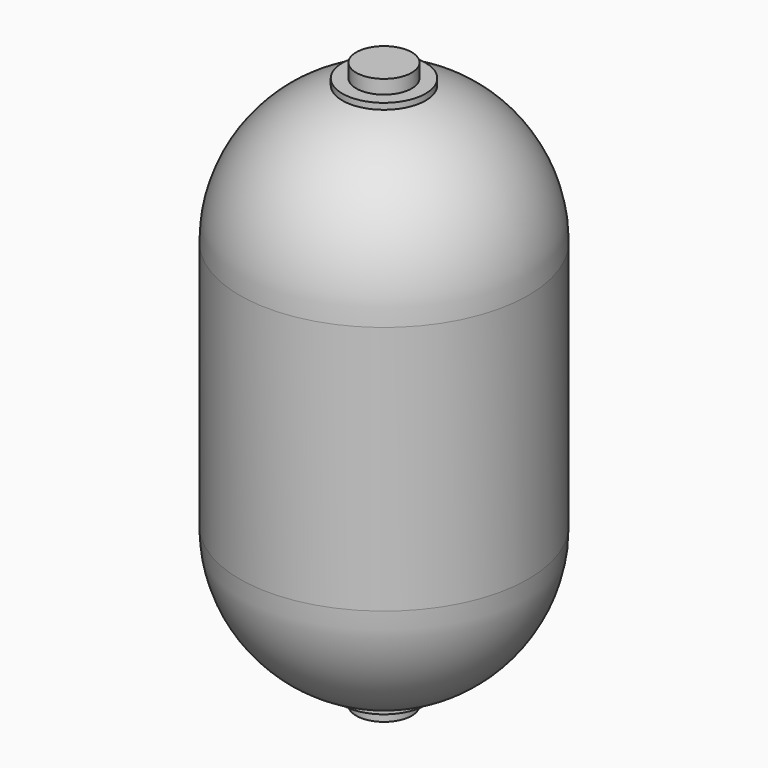
from build123d import *


with BuildPart() as f1:
    # F0 (on Front) → F1 (revolve)
    with BuildSketch(Plane.XZ):
        with BuildLine():
            Line((75, 0), (75, 11.052214))
            ThreePointArc((75, 11.052214), (208.686368, 104.919376), (260, 260))
            Line((260, 260), (260, 710))
            ThreePointArc((260, 710), (208.686368, 865.080624), (75, 958.947786))
            Line((75, 958.947786), (75, 970))
            Line((75, 970), (50, 970))
            Line((50, 970), (50, 995))
            Line((50, 995), (0, 995))
            Line((0, 995), (0, 970))
            Line((0, 970), (0, 0))
            Line((0, 0), (0, -25))
            Line((0, -25), (50, -25))
            Line((50, -25), (50, 0))
            Line((50, 0), (75, 0))
        make_face()
    revolve(axis=Axis((0, 0, 485), (0, 0, -1)))


solid = f1.part
